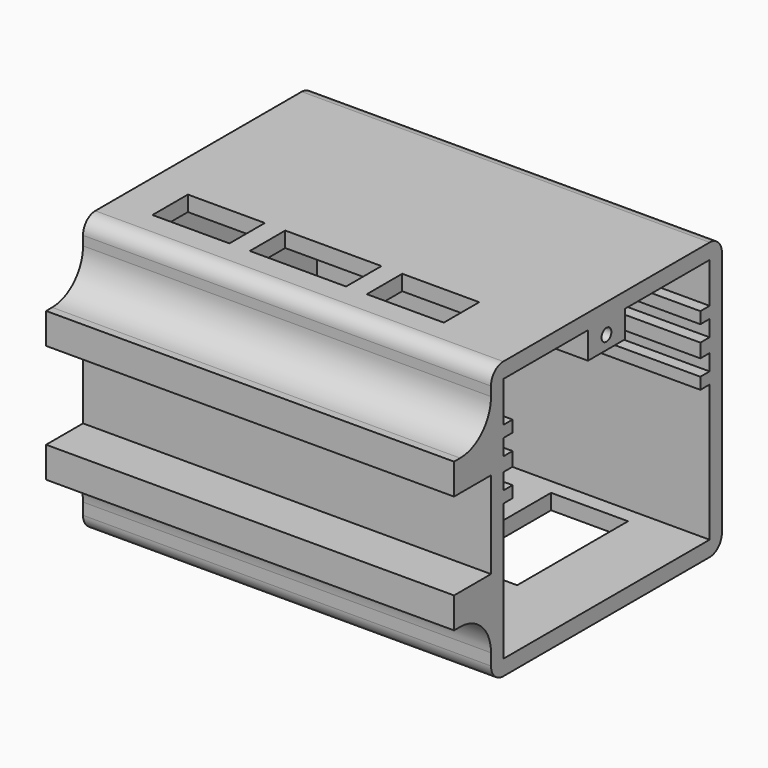
from build123d import *

# Parameters (mm, degrees)
SKETCH_W        = 53
SKETCH_H        = 37.5
SKETCH_W_2      = 49
SKETCH_H_2      = 33.5
PAD_DEPTH       = 32
SKETCH001_W     = 53
SKETCH001_H     = 37.5
PAD001_DEPTH    = 2
SKETCH002_W     = 53
SKETCH002_H     = 37.5
PAD002_DEPTH    = 2
SKETCH003_W     = 33.5
SKETCH003_H     = 32
POCKET_DEPTH    = 2
SKETCH004_W     = 10
SKETCH004_H     = 5.75
SKETCH004_W_2   = 12.5
SKETCH004_W_3   = 9.9999999999
POCKET001_DEPTH = 5
SKETCH005_W     = 51
SKETCH005_H     = 1.8
SKETCH005_H_2   = 1.5
PAD003_DEPTH    = 33.5
SKETCH006_W     = 30.5
SKETCH006_H     = 9
POCKET002_DEPTH = 51
SKETCH007_W     = 17.616245
SKETCH007_H     = 6
PAD004_DEPTH    = 5
SKETCH008_R     = 0.8
POCKET003_DEPTH = 5
SKETCH009_W     = 17.616245
SKETCH009_H     = 6
PAD005_DEPTH    = 3.5
SKETCH010_R     = 0.8
POCKET004_DEPTH = 6
CHAMFER_SIZE    = 3.499
CHAMFER001_SIZE = 4.99
FILLET_R        = 1.99
SKETCH012_W     = 53
SKETCH012_H     = 4
PAD006_DEPTH    = 6
FILLET001_R     = 5
SKETCH013_W     = 6
SKETCH013_H     = 5
POCKET005_DEPTH = 20
SKETCH014_W     = 10
SKETCH014_H     = 18
POCKET006_DEPTH = 5


with BuildPart() as part:
    # Sketch → Pad (new body)
    with BuildSketch(Plane.XY):
        Rectangle(SKETCH_W, SKETCH_H)
        Rectangle(SKETCH_W_2, SKETCH_H_2, mode=Mode.SUBTRACT)
    extrude(amount=PAD_DEPTH)

    # Sketch001 (on Face10 of Pad) → Pad001 (join)
    with BuildSketch(Plane.XY.offset(32)):
        Rectangle(SKETCH001_W, SKETCH001_H)
    extrude(amount=PAD001_DEPTH)

    # Sketch002 (on Face4 of Pad001) → Pad002 (join)
    with BuildSketch(Plane(origin=(0, 0, 0), x_dir=(1, 0, 0), z_dir=(0, 0, -1))):
        Rectangle(SKETCH002_W, SKETCH002_H)
    extrude(amount=PAD002_DEPTH)

    # Sketch003 (on Face3 of Pad002) → Pocket (cut)
    with BuildSketch(Plane.YZ.offset(26.5)):
        with Locations((0, 16)):
            Rectangle(SKETCH003_W, SKETCH003_H)
    extrude(amount=-POCKET_DEPTH, mode=Mode.SUBTRACT)

    # Sketch004 (on Face13 of Pocket) → Pocket001 (cut)
    with BuildSketch(Plane.XY.offset(34)):
        with Locations((-16.4, -10.975)):
            Rectangle(SKETCH004_W, SKETCH004_H)
        with Locations((-2.5, -10.975)):
            Rectangle(SKETCH004_W_2, SKETCH004_H)
        with Locations((11.45, -10.975)):
            Rectangle(SKETCH004_W_3, SKETCH004_H)
    extrude(amount=-POCKET001_DEPTH, mode=Mode.SUBTRACT)

    # Sketch005 (on Face36 of Pocket001) → Pad003 (join)
    with BuildSketch(Plane(origin=(0, -16.75, 0), x_dir=(-1, 0, 0), z_dir=(0, 1, 0))):
        with Locations((-1, 22.25)):
            Rectangle(SKETCH005_W, SKETCH005_H)
        with Locations((-1, 26)):
            Rectangle(SKETCH005_W, SKETCH005_H_2)
        with Locations((-1, 18.5)):
            Rectangle(SKETCH005_W, SKETCH005_H_2)
    extrude(amount=PAD003_DEPTH)

    # Sketch006 (on Face11 of Pad003) → Pocket002 (cut)
    with BuildSketch(Plane.YZ.offset(26.5)):
        with Locations((0, 22.25)):
            Rectangle(SKETCH006_W, SKETCH006_H)
    extrude(amount=-POCKET002_DEPTH, mode=Mode.SUBTRACT)

    # Sketch007 (on Face57 of Pocket002) → Pad004 (join)
    with BuildSketch(Plane.XY):
        with Locations((17.6918775, 0)):
            Rectangle(SKETCH007_W, SKETCH007_H)
    extrude(amount=PAD004_DEPTH)

    # Sketch008 (on Face24 of Pad004) → Pocket003 (cut)
    with BuildSketch(Plane.YZ.offset(26.5)):
        with Locations((0, 2.5)):
            Circle(SKETCH008_R)
    extrude(amount=-POCKET003_DEPTH, mode=Mode.SUBTRACT)

    # Sketch009 (on Face65 of Pocket003) → Pad005 (join)
    with BuildSketch(Plane(origin=(0, 0, 32), x_dir=(1, 0, 0), z_dir=(0, 0, -1))):
        with Locations((17.6918775, 0)):
            Rectangle(SKETCH009_W, SKETCH009_H)
    extrude(amount=PAD005_DEPTH)

    # Sketch010 (on Face41 of Pad005) → Pocket004 (cut)
    with BuildSketch(Plane.YZ.offset(26.5)):
        with Locations((0, 30.25)):
            Circle(SKETCH010_R)
    extrude(amount=-POCKET004_DEPTH, mode=Mode.SUBTRACT)

    # Chamfer
    chamfer_edges = [part.edges().sort_by_distance(p)[0] for p in [
        (8.883755, 0, 28.5),
    ]]
    chamfer(chamfer_edges, length=CHAMFER_SIZE)

    # Chamfer001
    chamfer001_edges = [part.edges().sort_by_distance(p)[0] for p in [
        (8.883755, 0, 5),
    ]]
    chamfer(chamfer001_edges, length=CHAMFER001_SIZE)

    # Fillet
    fillet_edges = [part.edges().sort_by_distance(p)[0] for p in [
        (0, -18.75, 34),
        (0, 18.75, 34),
        (0, 18.75, -2),
        (0, -18.75, -2),
    ]]
    fillet(fillet_edges, radius=FILLET_R)

    # Sketch012 → Pad006 (join)
    with BuildSketch(Plane.XZ.offset(18.75)):
        with Locations((0, 23.8)):
            Rectangle(SKETCH012_W, SKETCH012_H)
        with Locations((0, 8.5)):
            Rectangle(SKETCH012_W, SKETCH012_H)
    extrude(amount=PAD006_DEPTH)

    # Fillet001
    fillet001_edges = [part.edges().sort_by_distance(p)[0] for p in [
        (0, -18.75, 6.5),
        (0, -18.75, 25.8),
    ]]
    fillet(fillet001_edges, radius=FILLET001_R)

    # Sketch013 (on Face26 of Fillet001) → Pocket005 (cut)
    with BuildSketch(Plane.YZ.offset(26.5)):
        with Locations((0, 2.5)):
            Rectangle(SKETCH013_W, SKETCH013_H)
    extrude(amount=-POCKET005_DEPTH, mode=Mode.SUBTRACT)

    # Sketch014 (on Face23 of Pocket005) → Pocket006 (cut)
    with BuildSketch(Plane(origin=(0, 0, -2), x_dir=(1, 0, 0), z_dir=(0, 0, -1))):
        with Locations((12.5, -5.75)):
            Rectangle(SKETCH014_W, SKETCH014_H)
    extrude(amount=-POCKET006_DEPTH, mode=Mode.SUBTRACT)


solid = part.part
